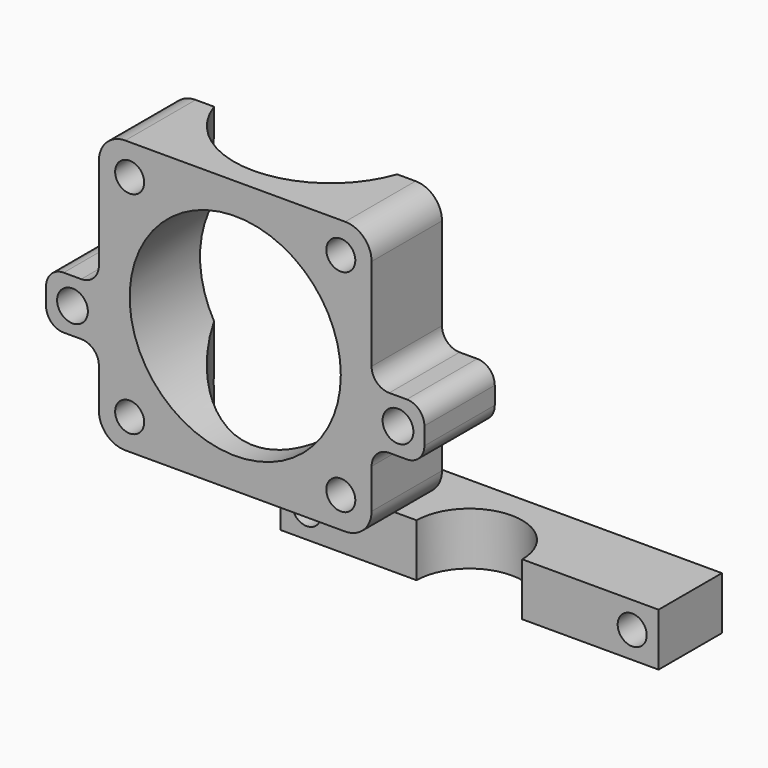
from build123d import *

# Parameters (mm, degrees)
F0_R     = 1.65
F0_R_2   = 1.75
F0_R_3   = 12
F1_DEPTH = 10
F3_DEPTH = 45
F5_DEPTH = 6
F6_R     = 1.65
F7_DEPTH = 25
F8_DEPTH = 25


with BuildPart() as f1:
    # F0 (on Front) → F1 (new body)
    with BuildSketch(Plane.XZ):
        with BuildLine():
            Line((-12.2300398648, 55.3337899446), (-37.2300398648, 55.3337899446))
            ThreePointArc((-37.2300398648, 55.3337899446), (-39.3513602083, 54.4551102882), (-40.2300398648, 52.3337899446))
            Line((-40.2300398648, 52.3337899446), (-40.2300398648, 41.8337899446))
            ThreePointArc((-40.2300398648, 41.8337899446), (-40.8158263024, 40.4195763823), (-42.2300398648, 39.8337899446))
            Line((-42.2300398648, 39.8337899446), (-44.2300398648, 39.8337899446))
            ThreePointArc((-44.2300398648, 39.8337899446), (-45.6442534272, 39.248003507), (-46.2300398648, 37.8337899446))
            Line((-46.2300398648, 37.8337899446), (-46.2300398648, 35.8337899446))
            ThreePointArc((-46.2300398648, 35.8337899446), (-45.6442534272, 34.4195763823), (-44.2300398648, 33.8337899446))
            Line((-44.2300398648, 33.8337899446), (-42.2300398648, 33.8337899446))
            ThreePointArc((-42.2300398648, 33.8337899446), (-40.8158263024, 33.248003507), (-40.2300398648, 31.8337899446))
            Line((-40.2300398648, 31.8337899446), (-40.2300398648, 27.3337899446))
            ThreePointArc((-40.2300398648, 27.3337899446), (-39.3513602083, 25.2124696011), (-37.2300398648, 24.3337899446))
            Line((-37.2300398648, 24.3337899446), (-12.2300398648, 24.3337899446))
            ThreePointArc((-12.2300398648, 24.3337899446), (-10.1087195212, 25.2124696011), (-9.2300398648, 27.3337899446))
            Line((-9.2300398648, 27.3337899446), (-9.2300398648, 31.8337899446))
            ThreePointArc((-9.2300398648, 31.8337899446), (-8.6442534272, 33.248003507), (-7.2300398648, 33.8337899446))
            Line((-7.2300398648, 33.8337899446), (-5.2300398648, 33.8337899446))
            ThreePointArc((-5.2300398648, 33.8337899446), (-3.8158263024, 34.4195763823), (-3.2300398648, 35.8337899446))
            Line((-3.2300398648, 35.8337899446), (-3.2300398648, 37.8337899446))
            ThreePointArc((-3.2300398648, 37.8337899446), (-3.8158263024, 39.248003507), (-5.2300398648, 39.8337899446))
            Line((-5.2300398648, 39.8337899446), (-7.2300398648, 39.8337899446))
            ThreePointArc((-7.2300398648, 39.8337899446), (-8.6442534272, 40.4195763823), (-9.2300398648, 41.8337899446))
            Line((-9.2300398648, 41.8337899446), (-9.2300398648, 52.3337899446))
            ThreePointArc((-9.2300398648, 52.3337899446), (-10.1087195212, 54.4551102882), (-12.2300398648, 55.3337899446))
        make_face()
        with Locations((-36.7300398648, 27.8337899446)):
            Circle(F0_R, mode=Mode.SUBTRACT)
        with Locations((-43.2300398648, 36.8337899446)):
            Circle(F0_R_2, mode=Mode.SUBTRACT)
        with Locations((-12.7300398648, 27.8337899446)):
            Circle(F0_R, mode=Mode.SUBTRACT)
        with Locations((-24.7300398648, 39.8337899446)):
            Circle(F0_R_3, mode=Mode.SUBTRACT)
        with Locations((-6.2300398648, 36.8337899446)):
            Circle(F0_R_2, mode=Mode.SUBTRACT)
        with Locations((-36.7300398648, 51.8337899446)):
            Circle(F0_R, mode=Mode.SUBTRACT)
        with Locations((-12.7300398648, 51.8337899446)):
            Circle(F0_R, mode=Mode.SUBTRACT)
    extrude(amount=F1_DEPTH)

    # F2 (on face) → F3 (cut)
    with BuildSketch(Plane(origin=(0, 0, 24.3337899446), x_dir=(1, 0, 0), z_dir=(0, 0, -1))):
        with BuildLine():
            Line((-35.1351045151, 0), (-14.3249752145, 0))
            ThreePointArc((-14.3249752145, 0), (-24.7300398648, 7.431438718), (-35.1351045151, 0))
        make_face()
    extrude(amount=-F3_DEPTH, mode=Mode.SUBTRACT)


with BuildPart() as f5:
    # F4 (on Top) → F5 (new body)
    with BuildSketch(Plane.XY):
        with BuildLine():
            ThreePointArc((-30.6281910539, 23.1475066394), (-24.6281910539, 29.1475066394), (-18.6281910539, 23.1475066394))
            Line((-18.6281910539, 23.1475066394), (-3.1281910539, 23.1475066394))
            Line((-3.1281910539, 23.1475066394), (-3.1281910539, 32.1475066394))
            Line((-3.1281910539, 32.1475066394), (-46.1281910539, 32.1475066394))
            Line((-46.1281910539, 32.1475066394), (-46.1281910539, 23.1475066394))
            Line((-46.1281910539, 23.1475066394), (-30.6281910539, 23.1475066394))
        make_face()
    extrude(amount=F5_DEPTH)

    # F6 (on face) → F7 (cut)
    with BuildSketch(Plane.XZ.offset(-23.1475066394)):
        with Locations((-6.1281910539, 3)):
            Circle(F6_R)
    extrude(amount=-F7_DEPTH, mode=Mode.SUBTRACT)

    # F6 (on face) → F8 (cut)
    with BuildSketch(Plane.XZ.offset(-23.1475066394)):
        with Locations((-43.1281910539, 3)):
            Circle(F6_R)
    extrude(amount=-F8_DEPTH, mode=Mode.SUBTRACT)


solid = Compound([f1.part, f5.part])
